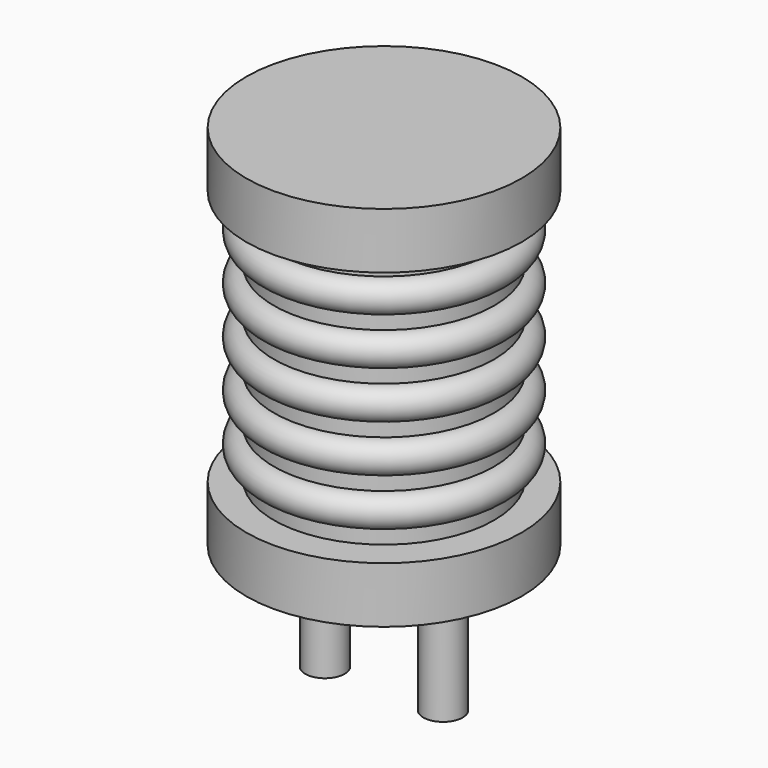
from build123d import *

# Parameters (mm, degrees)
SKETCH001_R  = 0.5
PAD001_DEPTH = 3.5


with BuildPart() as pad001:
    # Sketch001 → Pad001 (new body)
    with BuildSketch(Plane.XY.offset(0.5)):
        Circle(SKETCH001_R)
        with Locations((3, 0)):
            Circle(SKETCH001_R)
    extrude(amount=-PAD001_DEPTH)


with BuildPart() as revolution:
    # Sketch → Revolution (revolve)
    with BuildSketch(Plane(origin=(1.5, 0, 0), x_dir=(1, 0, 0), z_dir=(0, -1, 0))):
        Polygon((0, 0.05), (0.5, 0.05), (0.5, 0.2), (3.5, 0.2), (3.5, 1.625), (0.7, 1.625), (0.7, 8.125), (3.5, 8.125), (3.5, 9.55), (0, 9.55), align=None)
    revolve(axis=Axis((1.5, 0, 0), (0, 0, 1)))


with BuildPart() as revolution001:
    # Sketch002 → Revolution001 (revolve)
    with BuildSketch(Plane(origin=(1.5, 0, 0), x_dir=(1, 0, 0), z_dir=(0, -1, 0))):
        with BuildLine():
            Line((2.8, 1.675), (0.7, 1.675))
            Line((0.7, 1.675), (0.7, 8.075))
            Line((0.7, 8.075), (2.8, 8.075))
            Line((2.8, 8.075), (2.8, 7.675))
            ThreePointArc((2.8, 6.875), (3.2, 7.275), (2.8, 7.675))
            Line((2.8, 6.875), (2.8, 6.475))
            ThreePointArc((2.8, 5.675), (3.2, 6.075), (2.8, 6.475))
            Line((2.8, 5.675), (2.8, 5.275))
            ThreePointArc((2.8, 4.475), (3.2, 4.875), (2.8, 5.275))
            Line((2.8, 4.475), (2.8, 4.075))
            ThreePointArc((2.8, 3.275), (3.2, 3.675), (2.8, 4.075))
            Line((2.8, 3.275), (2.8, 2.875))
            ThreePointArc((2.8, 2.075), (3.2, 2.475), (2.8, 2.875))
            Line((2.8, 1.675), (2.8, 2.075))
        make_face()
    revolve(axis=Axis((1.5, 0, 0), (0, 0, 1)))


solid = Compound([pad001.part, revolution.part, revolution001.part])
